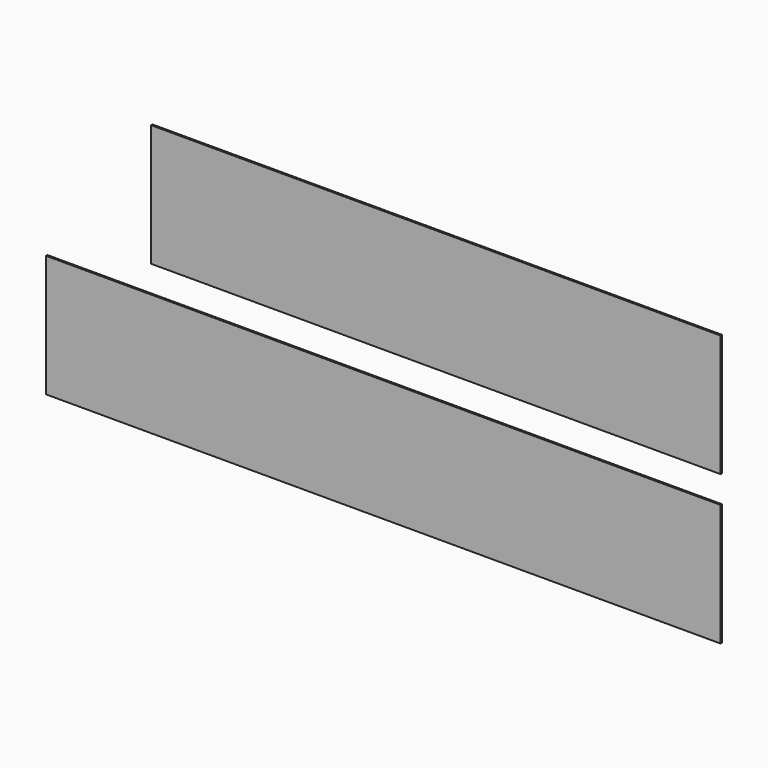
from build123d import *

# Parameters (mm, degrees)
F0_W     = 1066.8
F0_H     = 228.6
F0_W_2   = 1263.65
F1_DEPTH = 3.175


with BuildPart() as f1:
    # F0 (on Front) → F1 (new body)
    with BuildSketch(Plane.XZ):
        with Locations((-533.4, 114.3)):
            Rectangle(F0_W, F0_H)
        with Locations((-631.825, -165.1)):
            Rectangle(F0_W_2, F0_H)
    extrude(amount=F1_DEPTH)


solid = f1.part
